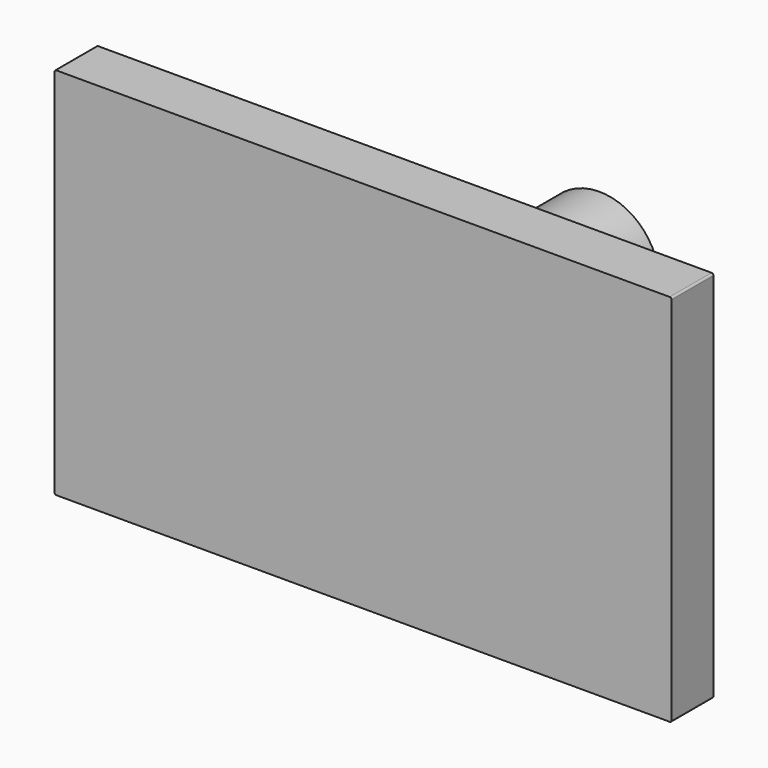
from build123d import *

# Parameters (mm, degrees)
F2_W     = 4191
F2_H     = 2540
F3_DEPTH = 355.6
F4_R     = 12.7


with BuildPart() as f1:
    # F0 (on Top) → F1 (revolve)
    with BuildSketch(Plane.XY):
        Polygon((0, 1651), (0, 0), (762, 0), (762, 635), (406.4, 990.6), (406.4, 1651), align=None)
    revolve(axis=Axis((0, 825.5, 0), (0, -1, 0)))

    # F2 (on face) → F3 (join)
    with BuildSketch(Plane.XZ):
        Rectangle(F2_W, F2_H)
    extrude(amount=F3_DEPTH)

    # F4
    f4_edges = [f1.edges().sort_by_distance(p)[0] for p in [
        (-2095.5, -177.8, -1270),
        (-2095.5, -177.8, 1270),
        (2095.5, -177.8, 1270),
        (2095.5, -177.8, -1270),
    ]]
    fillet(f4_edges, radius=F4_R)


solid = f1.part
